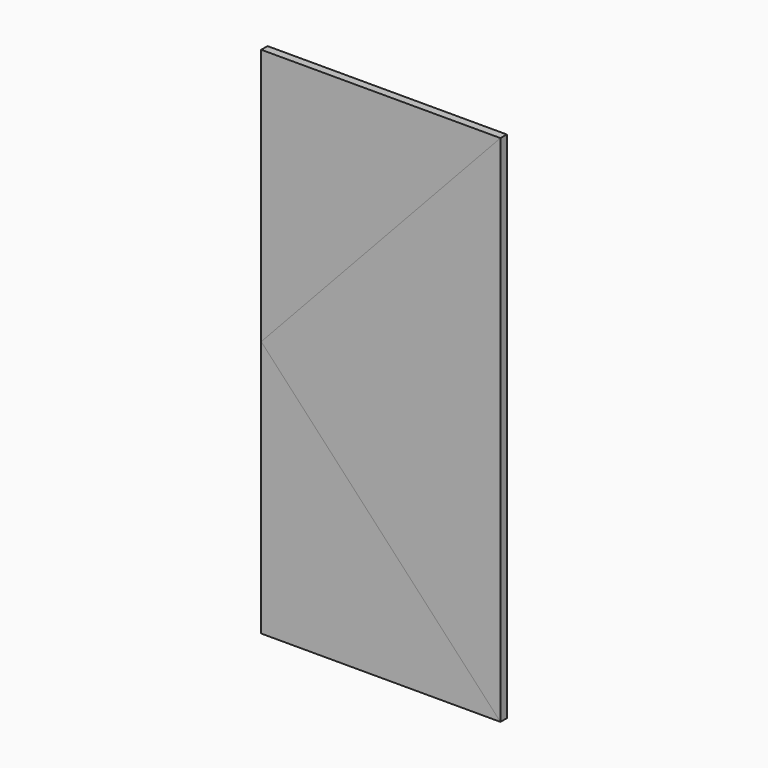
from build123d import *

# Parameters (mm, degrees)
F1_DEPTH = 40
F2_DEPTH = 40


with BuildPart() as f1:
    # F0 (on Front) → F1 (new body)
    with BuildSketch(Plane.XZ):
        Polygon((-605, 0), (605, -1300), (605, 1300), align=None)
    extrude(amount=F1_DEPTH)


with BuildPart() as f2:
    # F0 (on Front) → F2 (new body)
    with BuildSketch(Plane.XZ):
        Polygon((-605, -1300), (605, -1300), (-605, 0), align=None)
        Polygon((-605, 0), (605, 1300), (-605, 1300), align=None)
    extrude(amount=F2_DEPTH)


solid = Compound([f1.part, f2.part])
